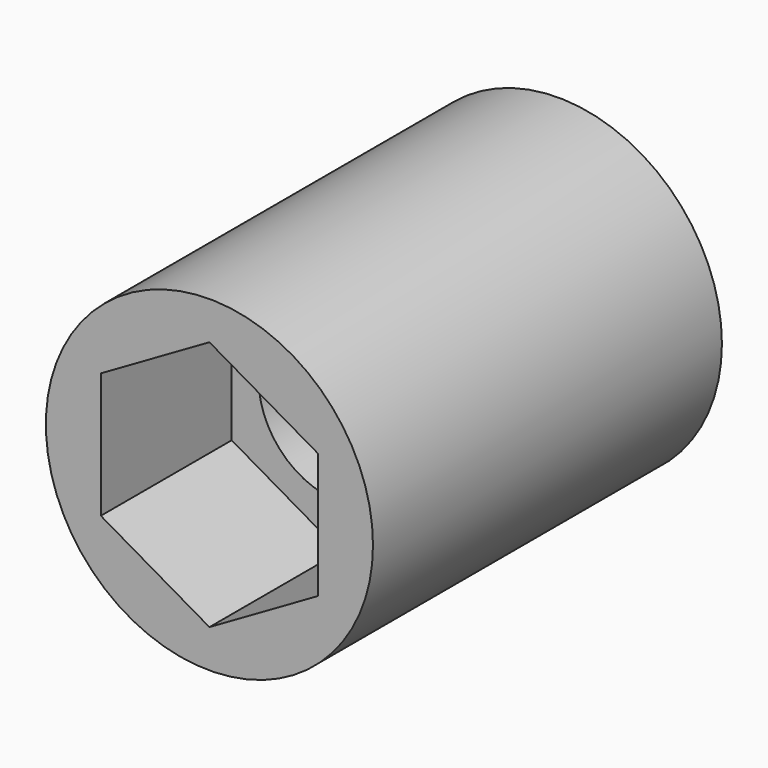
from build123d import *

# Parameters (mm, degrees)
F0_R     = 9.525
F1_DEPTH = 25.4
F3_R     = 4.7625
F4_DEPTH = 25.4
F2_W     = 9.525
F2_H     = 9.525
F5_DEPTH = 11.0998
F7_DEPTH = 9.525


with BuildPart() as f1:
    # F0 (on Front) → F1 (new body)
    with BuildSketch(Plane.XZ):
        Circle(F0_R)
    extrude(amount=F1_DEPTH)

    # F3 (on face) → F4 (cut)
    with BuildSketch(Plane(origin=(0, 0, 0), x_dir=(-1, 0, 0), z_dir=(0, 1, 0))):
        Circle(F3_R)
    extrude(amount=-F4_DEPTH, mode=Mode.SUBTRACT)

    # F2 (on face) → F5 (cut)
    with BuildSketch(Plane(origin=(0, 0, 0), x_dir=(-1, 0, 0), z_dir=(0, 1, 0))):
        Rectangle(F2_W, F2_H)
    extrude(amount=-F5_DEPTH, mode=Mode.SUBTRACT)

    # F6 (on face) → F7 (cut)
    with BuildSketch(Plane.XZ.offset(25.4)):
        Polygon((6.324151, -3.65125), (6.324151, 3.65125), (0, 7.3025), (-6.324151, 3.65125), (-6.324151, -3.65125), (0, -7.3025), align=None)
    extrude(amount=-F7_DEPTH, mode=Mode.SUBTRACT)


solid = f1.part
